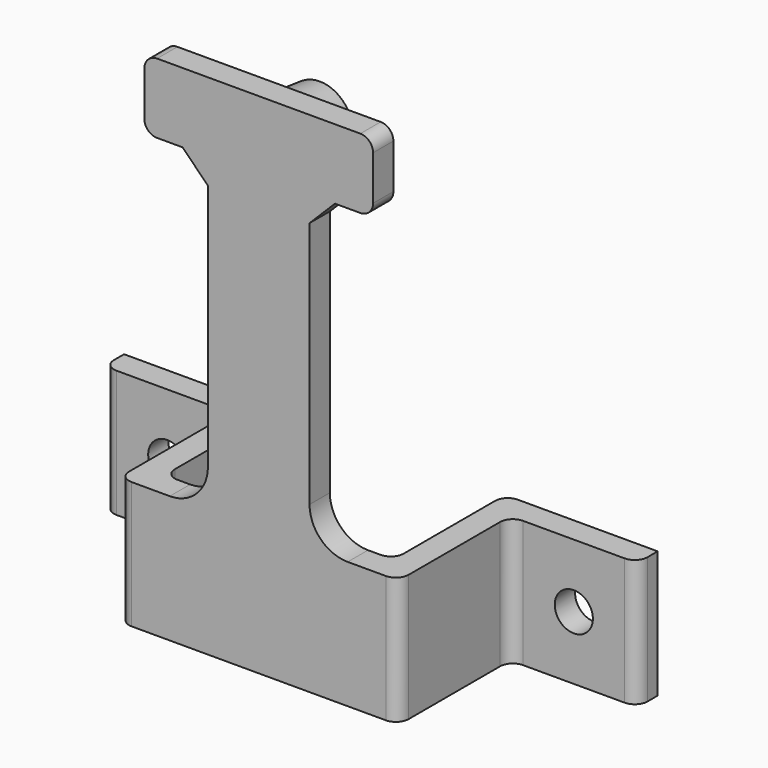
from build123d import *

# Parameters (mm, degrees)
PAD_DEPTH    = 10
SKETCH001_W  = 8
SKETCH001_H  = 2
PAD001_DEPTH = 30
SKETCH002_R  = 3
PAD002_DEPTH = 4
PAD002_TAPER = 6
SKETCH004_W  = 2
SKETCH004_H  = 5.5
PAD003_DEPTH = 5
SKETCH005_R  = 1.5
HOLE_DEPTH   = 2.001
FILLET_R     = 1
FILLET001_R  = 3
CHAMFER_SIZE = 2
FILLET002_R  = 1


with BuildPart() as part:
    # Sketch → Pad (new body)
    with BuildSketch(Plane.XY):
        Polygon((-21, 0), (-9, 0), (-9, -11), (0, -11), (0, -13), (-11, -13), (-11, -2), (-21, -2), align=None)
    pad = extrude(amount=PAD_DEPTH)

    # Mirrored: Pad across Sketch V_Axis
    add(pad.mirror(Plane(origin=(0, 0, 0), x_dir=(0, 0, 1), z_dir=(1, 0, 0))))

    # Sketch001 (on Face11 of Mirrored) → Pad001 (join)
    with BuildSketch(Plane.XY.offset(10)):
        with Locations((0, -12)):
            Rectangle(SKETCH001_W, SKETCH001_H)
    extrude(amount=PAD001_DEPTH)

    # Sketch002 (on Face13 of Pad001) → Pad002 (join)
    with BuildSketch(Plane(origin=(0, -11, 0), x_dir=(-1, 0, 0), z_dir=(0, 1, 0))):
        with Locations((0, 36)):
            Circle(SKETCH002_R)
    extrude(amount=PAD002_DEPTH, taper=PAD002_TAPER)

    # Sketch004 (on Face11 of Pad002) → Pad003 (join)
    with BuildSketch(Plane(origin=(-4, 0, 0), x_dir=(0, -1, 0), z_dir=(-1, 0, 0))):
        with Locations((12, 37.25)):
            Rectangle(SKETCH004_W, SKETCH004_H)
    pad003 = extrude(amount=PAD003_DEPTH)

    # Mirrored001: Pad003 across YZ
    add(pad003.mirror(Plane.YZ))

    # Sketch005 (on Face6 of Mirrored001) → Hole (cut, through all)
    with BuildSketch(Plane.XZ.offset(2)):
        with Locations((-16, 5)):
            Circle(SKETCH005_R)
        with Locations((16, 5)):
            Circle(SKETCH005_R)
    extrude(amount=-HOLE_DEPTH, mode=Mode.SUBTRACT)

    # Fillet
    fillet_edges = [part.edges().sort_by_distance(p)[0] for p in [
        (-21, -2, 5),
        (-11, -2, 5),
        (-11, -13, 5),
        (11, -13, 5),
        (21, -2, 5),
        (11, -2, 5),
        (9, -11, 5),
        (9, 0, 5),
        (-9, 0, 5),
        (-9, -11, 5),
    ]]
    fillet(fillet_edges, radius=FILLET_R)

    # Fillet001
    fillet001_edges = [part.edges().sort_by_distance(p)[0] for p in [
        (-4, -12, 10),
        (4, -12, 10),
    ]]
    fillet(fillet001_edges, radius=FILLET001_R)

    # Chamfer
    chamfer_edges = [part.edges().sort_by_distance(p)[0] for p in [
        (4, -12, 34.5),
        (-4, -12, 34.5),
    ]]
    chamfer(chamfer_edges, length=CHAMFER_SIZE)

    # Fillet002
    fillet002_edges = [part.edges().sort_by_distance(p)[0] for p in [
        (-9, -12, 34.5),
        (-9, -12, 40),
        (9, -12, 34.5),
        (9, -12, 40),
    ]]
    fillet(fillet002_edges, radius=FILLET002_R)


solid = part.part
